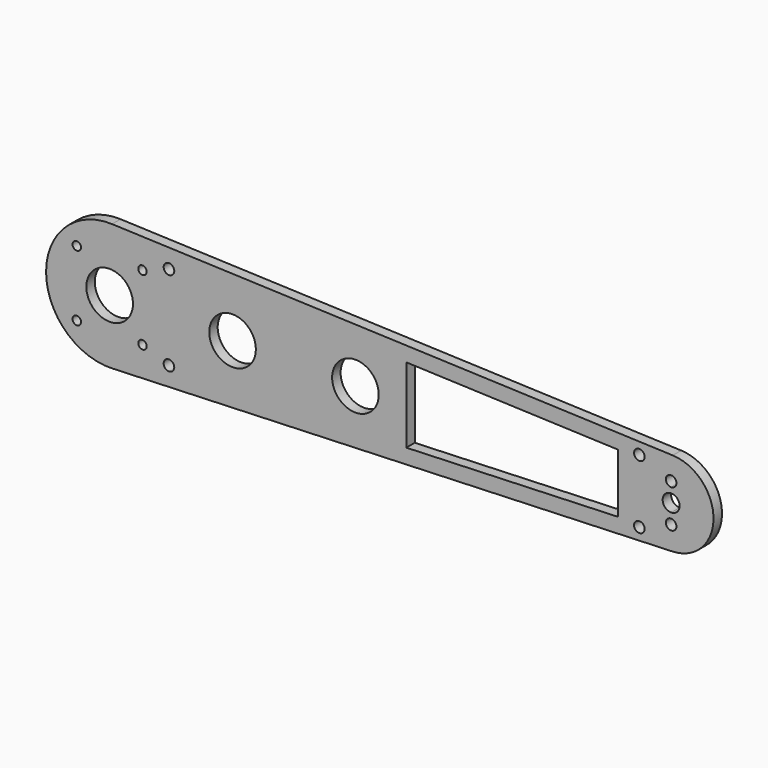
from build123d import *

# Parameters (mm, degrees)
F0_R     = 2
F0_R_2   = 2.5
F0_R_3   = 11
F1_DEPTH = 5


with BuildPart() as f1:
    # F0 (on Front) → F1 (new body)
    with BuildSketch(Plane.XZ):
        with BuildLine():
            Line((184.4572780697, 19.9288576661), (-80.1632240281, 29.9783894177))
            ThreePointArc((-80.1632240281, 29.9783894177), (-111.3017170767, 0.0062839815), (-80.1757830374, -29.9788637386))
            Line((-80.1757830374, -29.9788637386), (184.7617476543, -20.0284412994))
            ThreePointArc((184.7617476543, -20.0284412994), (203.6977016657, 0.0956577775), (184.4572780697, 19.9288576661))
        make_face()
        with Locations((-96.8017177348, -15.5)):
            Circle(F0_R, mode=Mode.SUBTRACT)
        with Locations((-53.3017177348, -20)):
            Circle(F0_R_2, mode=Mode.SUBTRACT)
        with Locations((-65.8017177348, -15.5)):
            Circle(F0_R, mode=Mode.SUBTRACT)
        Polygon((58.6982822652, -17.7581494418), (58.6982822652, 17.6997794532), (158.6982822652, 13.9020647365), (158.6982822652, -14.0023876918), align=None, mode=Mode.SUBTRACT)
        with Locations((168.6982822652, -15)):
            Circle(F0_R_2, mode=Mode.SUBTRACT)
        with BuildLine():
            ThreePointArc((186.1982822652, -9.056735279), (181.9305153122, -10.824502232), (183.6982822652, -6.556735279))
            ThreePointArc((183.6982822652, -6.556735279), (185.4660492181, -7.288968326), (186.1982822652, -9.056735279))
        make_face(mode=Mode.SUBTRACT)
        with BuildLine():
            ThreePointArc((183.6982822652, 3.943264721), (186.5267093899, 2.7716918458), (187.6982822652, -0.056735279))
            ThreePointArc((187.6982822652, -0.056735279), (186.5267093899, -2.8851624037), (183.6982822652, -4.056735279))
            ThreePointArc((183.6982822652, -4.056735279), (179.6982822652, -0.056735279), (183.6982822652, 3.943264721))
        make_face(mode=Mode.SUBTRACT)
        with Locations((-81.3017177348, 0)):
            Circle(F0_R_3, mode=Mode.SUBTRACT)
        with Locations((-23.3017177348, 0)):
            Circle(F0_R_3, mode=Mode.SUBTRACT)
        with Locations((34.6982822652, 0)):
            Circle(F0_R_3, mode=Mode.SUBTRACT)
        with Locations((-96.8017177348, 15.5)):
            Circle(F0_R, mode=Mode.SUBTRACT)
        with Locations((-65.8017177348, 15.5)):
            Circle(F0_R, mode=Mode.SUBTRACT)
        with Locations((-53.3017177348, 20)):
            Circle(F0_R_2, mode=Mode.SUBTRACT)
        with BuildLine():
            ThreePointArc((186.1982822652, 8.943264721), (185.4660492181, 7.175497768), (183.6982822652, 6.443264721))
            ThreePointArc((183.6982822652, 6.443264721), (181.9305153122, 10.711031674), (186.1982822652, 8.943264721))
        make_face(mode=Mode.SUBTRACT)
        with Locations((168.6982822652, 15)):
            Circle(F0_R_2, mode=Mode.SUBTRACT)
    extrude(amount=F1_DEPTH)


solid = f1.part
